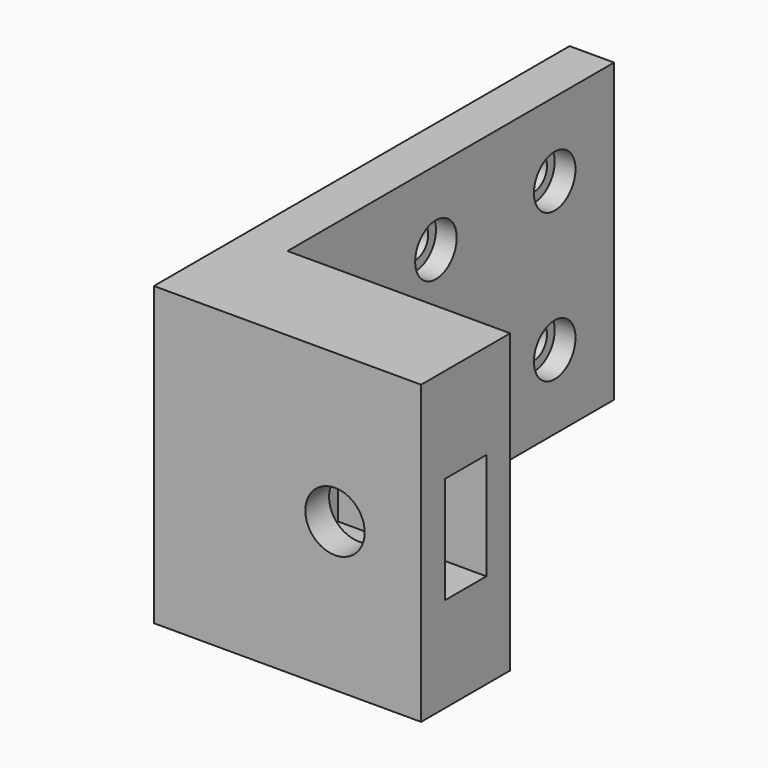
from build123d import *

# Parameters (mm, degrees)
F0_W     = 20
F0_H     = 20
F0_R     = 1.75
F0_R_2   = 1.1
F1_DEPTH = 3
F2_DEPTH = 1.4
F0_W_2   = 7.5
F3_DEPTH = 15
F4_DEPTH = 3
F5_W     = 3.5
F5_H     = 7.2
F6_DEPTH = 10
F7_R     = 2
F8_DEPTH = 25
F9_DEPTH = 7.5


with BuildPart() as f1:
    # F0 (on Right) → F1 (new body)
    with BuildSketch(Plane.YZ):
        Rectangle(F0_W, F0_H)
        with Locations((-5, -5)):
            Circle(F0_R, mode=Mode.SUBTRACT)
        with Locations((5, -5)):
            Circle(F0_R, mode=Mode.SUBTRACT)
        with Locations((-5, 5)):
            Circle(F0_R, mode=Mode.SUBTRACT)
        with Locations((5, 5)):
            Circle(F0_R, mode=Mode.SUBTRACT)
        with Locations((-5, 5)):
            Circle(F0_R)
        with Locations((-5, 5)):
            Circle(F0_R_2, mode=Mode.SUBTRACT)
        with Locations((5, 5)):
            Circle(F0_R)
        with Locations((5, 5)):
            Circle(F0_R_2, mode=Mode.SUBTRACT)
        with Locations((5, -5)):
            Circle(F0_R)
        with Locations((5, -5)):
            Circle(F0_R_2, mode=Mode.SUBTRACT)
        with Locations((-5, -5)):
            Circle(F0_R)
        with Locations((-5, -5)):
            Circle(F0_R_2, mode=Mode.SUBTRACT)
    extrude(amount=-F1_DEPTH)

    # F0 (on Right) → F2 (cut)
    with BuildSketch(Plane.YZ):
        with Locations((-5, 5)):
            Circle(F0_R)
        with Locations((-5, 5)):
            Circle(F0_R_2, mode=Mode.SUBTRACT)
        with Locations((5, 5)):
            Circle(F0_R)
        with Locations((5, 5)):
            Circle(F0_R_2, mode=Mode.SUBTRACT)
        with Locations((5, -5)):
            Circle(F0_R)
        with Locations((5, -5)):
            Circle(F0_R_2, mode=Mode.SUBTRACT)
        with Locations((-5, -5)):
            Circle(F0_R)
        with Locations((-5, -5)):
            Circle(F0_R_2, mode=Mode.SUBTRACT)
    extrude(amount=-F2_DEPTH, mode=Mode.SUBTRACT)

    # F9 (add, through all): a face of the model
    f9_faces = [f1.faces().sort_by_distance(p)[0] for p in [
        (-1.5, -10, 0),
    ]]


with BuildPart() as f3:
    # F0 (on Right) → F3 (new body)
    with BuildSketch(Plane.YZ):
        with Locations((-21.25, 0)):
            Rectangle(F0_W_2, F0_H)
    extrude(amount=F3_DEPTH)

    # F4 (add, through all): a face of the model
    f4_faces = [f3.faces().sort_by_distance(p)[0] for p in [
        (0, -21.25, 0),
    ]]
    extrude(f4_faces, amount=F4_DEPTH)

    # F5 (on face) → F6 (cut)
    with BuildSketch(Plane.YZ.offset(15)):
        with Locations((-21.25, 0)):
            Rectangle(F5_W, F5_H)
    extrude(amount=-F6_DEPTH, mode=Mode.SUBTRACT)

    # F7 (on face) → F8 (cut)
    with BuildSketch(Plane.XZ.offset(25)):
        with Locations((9.2, 0)):
            Circle(F7_R)
    extrude(amount=-F8_DEPTH, mode=Mode.SUBTRACT)


with BuildPart() as f1_1:
    add(f1.part)

    add(f3.part)  # F9 merges F3
    extrude(f9_faces, amount=F9_DEPTH)


solid = f1_1.part
